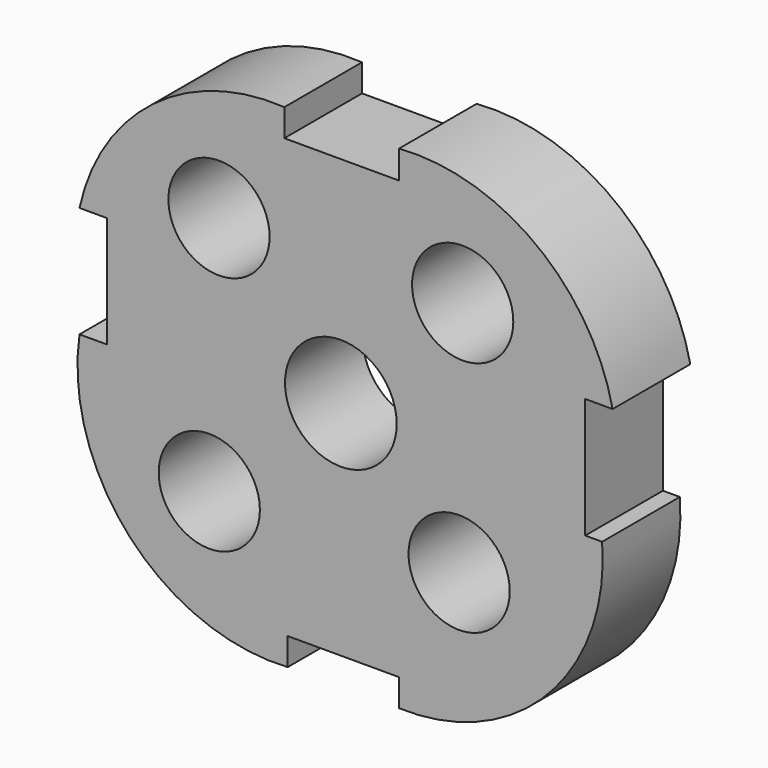
from build123d import *

# Parameters (mm, degrees)
F0_R     = 13.234543
F0_R_2   = 14.602605
F0_R_3   = 13.234537
F1_DEPTH = 25.4


with BuildPart() as f1:
    # F0 (on Front) → F1 (new body)
    with BuildSketch(Plane.XZ):
        with BuildLine():
            Line((-68.349093, 22.744557), (-61.190916, 22.744557))
            Line((-61.190916, 22.744557), (-61.190916, -6.35))
            Line((-61.190916, -6.35), (-68.349093, -6.35))
            ThreePointArc((-68.349093, -6.35), (-55.153312, -48.774699), (-13.896282, -65.262306))
            Line((-13.896282, -65.262306), (-13.896282, -58.104129))
            Line((-13.896282, -58.104129), (15.198263, -58.104129))
            Line((15.198263, -58.104129), (15.198263, -65.262306))
            ThreePointArc((15.198263, -65.262306), (54.17365, -49.31931), (68.332028, -9.660764))
            Line((68.332028, -9.660764), (63.915444, -9.660764))
            Line((63.915444, -9.660764), (63.915444, 21.790432))
            Line((63.915444, 21.790432), (71.073621, 21.790432))
            ThreePointArc((71.073621, 21.790432), (50.996785, 53.196906), (15.198263, 63.584965))
            Line((15.198263, 63.584965), (15.198263, 56.226362))
            Line((15.198263, 56.226362), (-14.778182, 56.226362))
            Line((-14.778182, 56.226362), (-14.778182, 63.384548))
            ThreePointArc((-14.778182, 63.384548), (-49.081059, 52.973883), (-68.349093, 22.744557))
        make_face()
        with Locations((-34.410097, -31.443559)):
            Circle(F0_R, mode=Mode.SUBTRACT)
        with Locations((30.93718, -28.903559)):
            Circle(F0_R, mode=Mode.SUBTRACT)
        Circle(F0_R_2, mode=Mode.SUBTRACT)
        with Locations((-31.870097, 32.287352)):
            Circle(F0_R_3, mode=Mode.SUBTRACT)
        with Locations((31.860813, 33.441897)):
            Circle(F0_R, mode=Mode.SUBTRACT)
    extrude(amount=F1_DEPTH)


solid = f1.part
